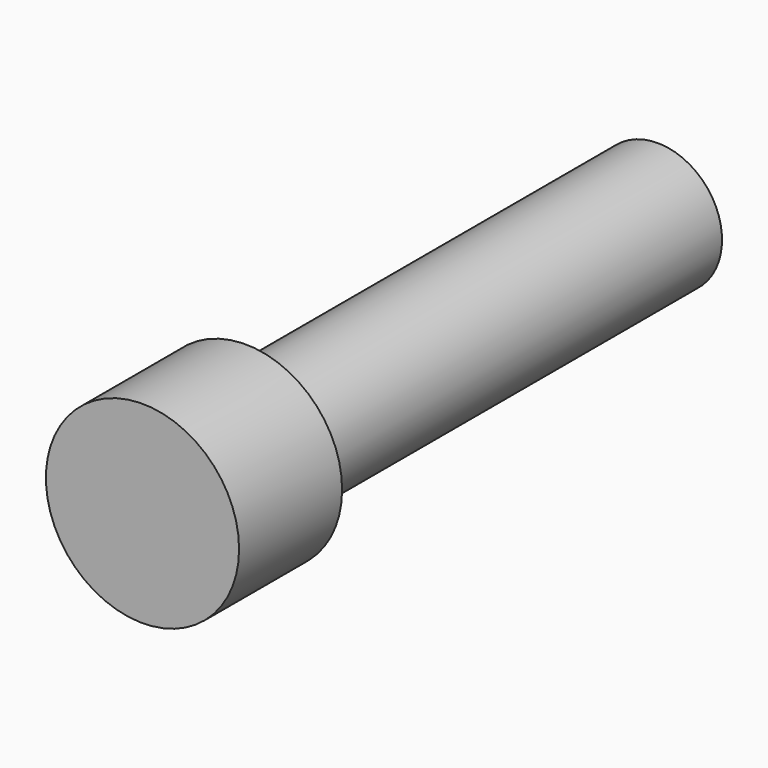
from build123d import *

# Parameters (mm, degrees)
F0_R     = 4.7625
F1_DEPTH = 3.175
F2_R     = 3.175
F3_DEPTH = 25.4


with BuildPart() as f1:
    # F0 (on Front) → F1 (new body, symmetric)
    with BuildSketch(Plane.XZ):
        Circle(F0_R)
    extrude(amount=F1_DEPTH, both=True)

    # F2 (on face) → F3 (join)
    with BuildSketch(Plane(origin=(0, 3.175, 0), x_dir=(-1, 0, 0), z_dir=(0, 1, 0))):
        Circle(F2_R)
    extrude(amount=F3_DEPTH)


solid = f1.part
